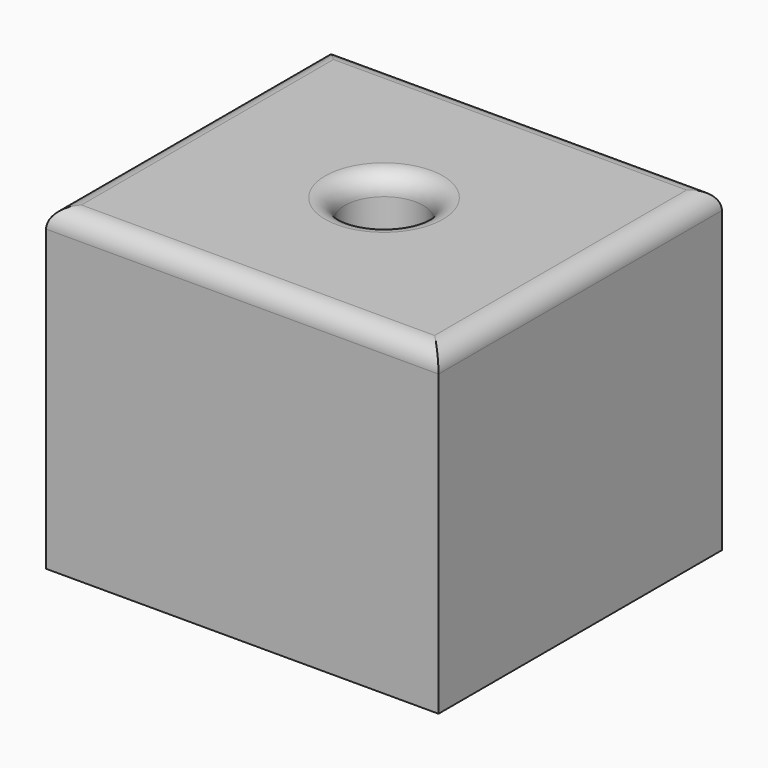
from build123d import *

# Parameters (mm, degrees)
F0_W     = 127
F0_H     = 114.6371724766
F1_DEPTH = 103.124
F3_D     = 25.4
F4_R     = 6.35
F5_T     = -2.54


with BuildPart() as f1:
    # F0 (on Top) → F1 (new body)
    with BuildSketch(Plane.XY):
        with Locations((-0.032884495, 0.0296833506)):
            Rectangle(F0_W, F0_H)
    extrude(amount=F1_DEPTH)

    # F3 (through all)
    with Locations(Plane.XY.offset(103.124)):
        with Locations((0, 0)):
            Hole(F3_D / 2)

    # F4
    f4_edges = [f1.edges().sort_by_distance(p)[0] for p in [
        (-0.032884, 57.34827, 103.124),
        (63.467116, 0.029683, 103.124),
        (-63.532884, 0.029683, 103.124),
        (-0.032884, -57.288903, 103.124),
        (-12.7, 0, 103.124),
    ]]
    fillet(f4_edges, radius=F4_R)

    # F5
    f5_openings = [f1.faces().sort_by_distance(p)[0] for p in [
        (-0.032884, 55.637402, 0),
    ]]
    offset(amount=F5_T, openings=f5_openings)


solid = f1.part
